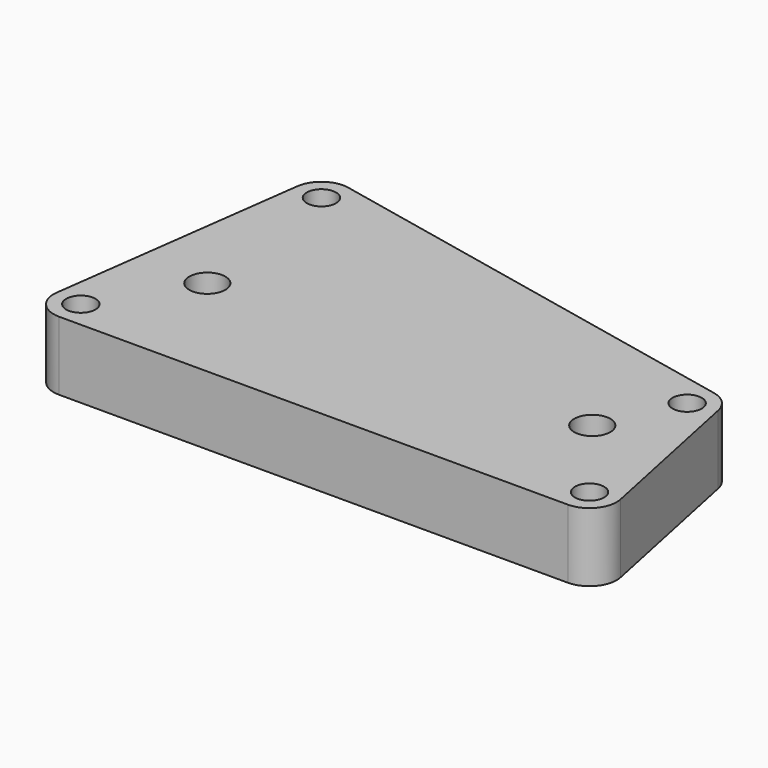
from build123d import *

# Parameters (mm, degrees)
F0_R     = 4.25
F0_R_2   = 5.25
F1_DEPTH = 20


with BuildPart() as f1:
    # F0 (on Top) → F1 (new body)
    with BuildSketch(Plane.XY):
        with BuildLine():
            Line((-193.823792, 58.811097), (-203.820433, -16.185588))
            ThreePointArc((-203.820433, -16.185588), (-201.933428, -22.43342), (-195.989693, -25.129382))
            Line((-195.989693, -25.129382), (-47.989693, -25.129382))
            ThreePointArc((-47.989693, -25.129382), (-41.860303, -22.213415), (-40.255748, -15.618138))
            Line((-40.255748, -15.618138), (-50.236344, 32.288557))
            ThreePointArc((-50.236344, 32.288557), (-52.328942, 36.281327), (-56.264514, 38.479611))
            Line((-56.264514, 38.479611), (-121.196228, 52.174278))
            Line((-121.196228, 52.174278), (-184.268519, 65.476777))
            ThreePointArc((-184.268519, 65.476777), (-190.512926, 64.246558), (-193.823792, 58.811097))
        make_face()
        with Locations((-195.989693, -17.229382)):
            Circle(F0_R, mode=Mode.SUBTRACT)
        with Locations((-179.991815, 8.77348)):
            Circle(F0_R_2, mode=Mode.SUBTRACT)
        with Locations((-47.989693, -17.229382)):
            Circle(F0_R, mode=Mode.SUBTRACT)
        with Locations((-67.991815, 8.765908)):
            Circle(F0_R_2, mode=Mode.SUBTRACT)
        with Locations((-185.993052, 57.767303)):
            Circle(F0_R, mode=Mode.SUBTRACT)
        with Locations((-57.989047, 30.770137)):
            Circle(F0_R, mode=Mode.SUBTRACT)
    extrude(amount=F1_DEPTH)


solid = f1.part
